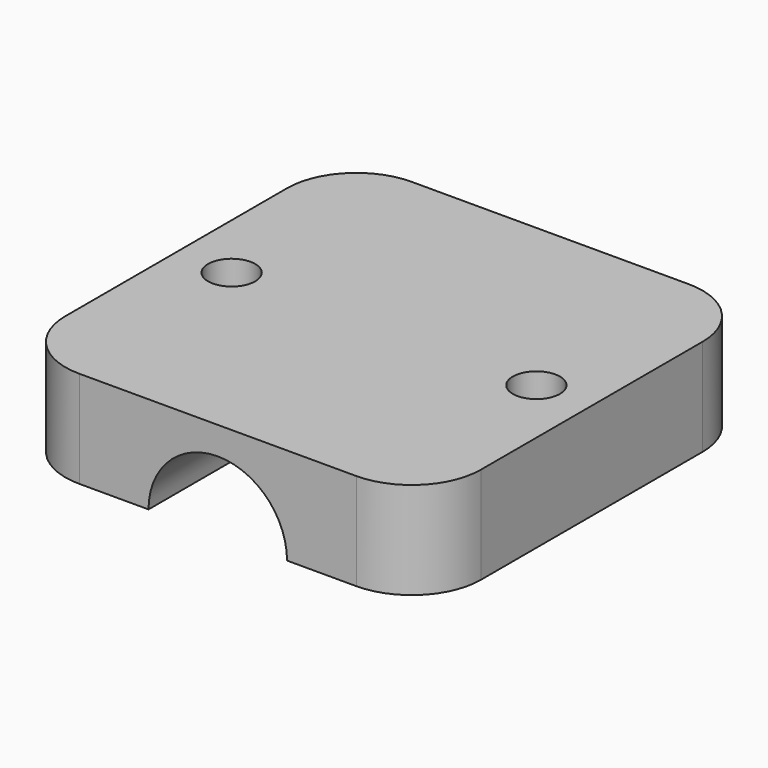
from build123d import *

# Parameters (mm, degrees)
F0_W     = 30
F0_H     = 30
F1_DEPTH = 7
F3_D     = 3.4
F5_DEPTH = 30
F6_R     = 5


with BuildPart() as f1:
    # F0 (on Top) → F1 (new body)
    with BuildSketch(Plane.XY):
        Rectangle(F0_W, F0_H)
    extrude(amount=F1_DEPTH)

    # F3 (through all)
    with Locations(Plane.XY.offset(7)):
        with Locations((-11, 0), (11, 0)):
            Hole(F3_D / 2)

    # F4 (on face) → F5 (cut, through all)
    with BuildSketch(Plane.XZ.offset(15)):
        with BuildLine():
            Line((-5, 0), (5, 0))
            ThreePointArc((5, 0), (0, 5), (-5, 0))
        make_face()
    extrude(amount=-F5_DEPTH, mode=Mode.SUBTRACT)

    # F6
    f6_edges = [f1.edges().sort_by_distance(p)[0] for p in [
        (15, -15, 3.5),
        (-15, -15, 3.5),
        (15, 15, 3.5),
        (-15, 15, 3.5),
    ]]
    fillet(f6_edges, radius=F6_R)


solid = f1.part
